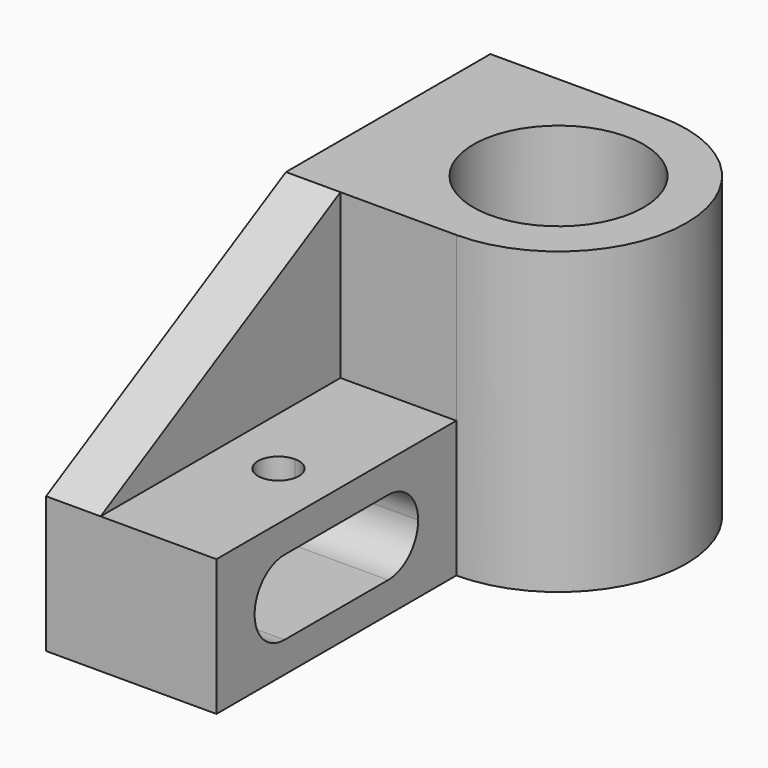
from build123d import *

# Parameters (mm, degrees)
F0_R     = 25
F1_DEPTH = 88
F2_W     = 88
F2_H     = 40
F3_DEPTH = 50
F5_DEPTH = 16
F7_DEPTH = 9


with BuildPart() as f1:
    # F0 (on Top) → F1 (new body)
    with BuildSketch(Plane.XY):
        with BuildLine():
            Line((0, 75), (0, 0))
            Line((0, 0), (50, 0))
            ThreePointArc((50, 0), (87.5, 37.5), (50, 75))
            Line((50, 75), (0, 75))
        make_face()
        with Locations((50, 37.5)):
            Circle(F0_R, mode=Mode.SUBTRACT)
    extrude(amount=F1_DEPTH)

    # F2 (on Right) → F3 (join)
    with BuildSketch(Plane.YZ):
        with Locations((-44, 20)):
            Rectangle(F2_W, F2_H)
        with BuildLine():
            ThreePointArc((-14, 20), (-17.2218254069, 12.2218254069), (-25, 9))
            Line((-25, 9), (-63, 9))
            ThreePointArc((-63, 9), (-74, 20), (-63, 31))
            Line((-63, 31), (-25, 31))
            ThreePointArc((-25, 31), (-17.2218254069, 27.7781745931), (-14, 20))
        make_face(mode=Mode.SUBTRACT)
    extrude(amount=F3_DEPTH)

    # F4 (on Right) → F5 (join)
    with BuildSketch(Plane.YZ):
        Polygon((-88, 40), (0, 40), (0, 88), align=None)
    extrude(amount=F5_DEPTH)

    # F6 (on face) → F7 (cut, through all)
    with BuildSketch(Plane.XY.offset(40)):
        with BuildLine():
            ThreePointArc((33, -38), (28.7573593129, -48.2426406871), (39, -44))
            ThreePointArc((39, -44), (37.2426406871, -39.7573593129), (33, -38))
        make_face()
    extrude(amount=-F7_DEPTH, mode=Mode.SUBTRACT)


solid = f1.part
